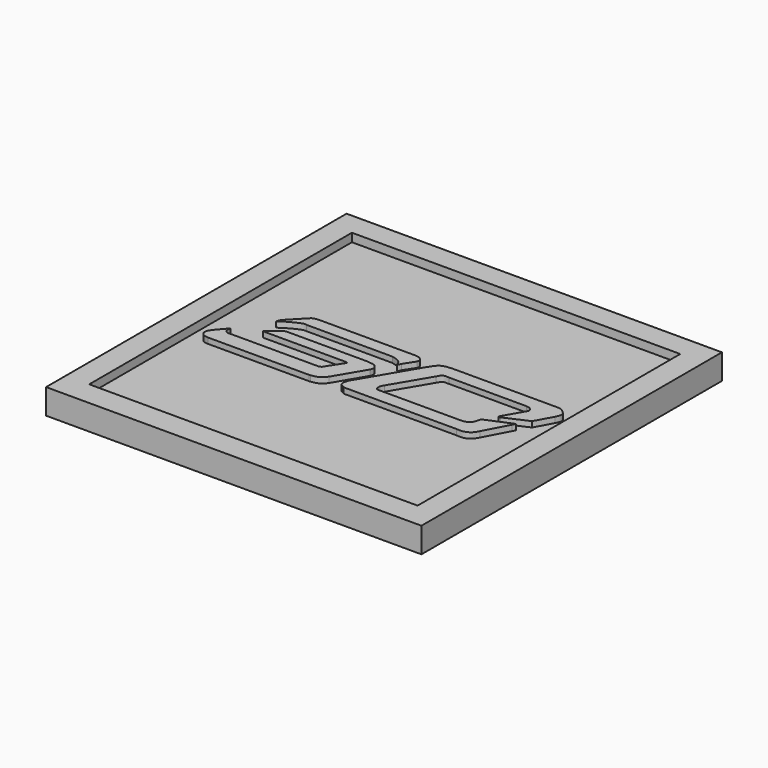
from build123d import *

# Parameters (mm, degrees)
F1_DEPTH = 4
F0_W     = 67.0369081199
F0_H     = 67.0809261501
F0_W_2   = 58.6396194994
F0_H_2   = 58.6396194994
F2_DEPTH = 4.5
F3_DEPTH = 3


with BuildPart() as f1:
    # F0 (on Top) → F1 (new body)
    with BuildSketch(Plane.XY):
        with BuildLine():
            Line((7.5317188166, 12.9940118641), (-6.4233830199, 12.9940118641))
            add(Edge.make_bspline(
                [(-6.4233830199, 12.9940118641), (-6.6727541746, 12.9958943063), (-7.3880370098, 13.0012938024), (-8.6391211367, 11.7970974877), (-9.4540361315, 11.0127236694)],
                knots=[0, 0, 0, 0, 0.3486329357, 1, 1, 1, 1], degree=3))
            Line((-9.4540361315, 11.0127236694), (5.2334726788, 11.0127236694))
            add(Edge.make_bspline(
                [(5.2334726788, 11.0127236694), (5.3090605952, 11.005323431), (5.4546754337, 10.991067389), (5.7107998654, 10.9503793721), (5.6690353198, 10.8663853028), (5.6522442028, 10.832616128)],
                knots=[0, 0, 0, 0, 0.3922608477, 0.7556631103, 1, 1, 1, 1], degree=3))
            Line((5.6522442028, 10.832616128), (3.7962628994, 7.9664159566))
            add(Edge.make_bspline(
                [(2.9035119805, 7.5670280494), (3.0000578914, 7.5566695575), (3.2150028585, 7.5336079314), (3.6782568153, 7.7182531376), (3.760973942, 7.8922044681), (3.7962628994, 7.9664159566)],
                knots=[0, 0, 0, 0, 0.3185914634, 0.7092960332, 1, 1, 1, 1], degree=3))
            Line((2.9035119805, 7.5670280494), (-12.6021569595, 7.5670280494))
            add(Edge.make_bspline(
                [(-12.6021569595, 7.5670280494), (-12.7506920977, 7.5400429871), (-13.0802808015, 7.48016509), (-13.6652374143, 8.0228190094), (-13.5939249894, 8.5642219459), (-13.5566350073, 8.8473269716)],
                knots=[0, 0, 0, 0, 0.2813001498, 0.62418464, 1, 1, 1, 1], degree=3))
            Line((-13.5566350073, 8.8473269716), (-14.8987295106, 7.290600799))
            add(Edge.make_bspline(
                [(-14.8987295106, 7.290600799), (-15.2012592552, 6.9147813474), (-15.7310535282, 6.2566411256), (-15.6963946329, 5.4074753693), (-15.1382114883, 4.8248356016), (-14.5680746791, 4.7742468891), (-14.2701910809, 4.7478154302)],
                knots=[0, 0, 0, 0, 0.3038309602, 0.5320729798, 0.7555187067, 1, 1, 1, 1], degree=3))
            Line((-14.2701910809, 4.7478154302), (3.7962628994, 4.7478154302))
            Line((3.7962628994, 4.7478154302), (4.013470374, 4.7706216574))
            add(Edge.make_bspline(
                [(4.013470374, 4.7706216574), (4.3513119959, 4.8207364924), (5.0133415069, 4.9189407917), (5.8331856113, 5.4264376837), (6.1557278644, 5.8572907906), (6.310059689, 6.0634477995)],
                knots=[0, 0, 0, 0, 0.3521129341, 0.6899953663, 1, 1, 1, 1], degree=3))
            Line((6.310059689, 6.0634477995), (9.434687905, 11.3494712859))
            add(Edge.make_bspline(
                [(7.5317188166, 12.9940118641), (7.8860031107, 12.9139476737), (8.7218129874, 12.942485334), (9.3478346646, 12.5465897861), (9.6333606255, 11.9778934035), (9.4980336551, 11.5595166389), (9.434687905, 11.3494712859)],
                knots=[0, 0, 0, 0, 0.3126475885, 0.5539185691, 0.7704032609, 1, 1, 1, 1], degree=3))
        make_face()
    extrude(amount=F1_DEPTH)


with BuildPart() as f1b:
    # F0 (on Top) → F1, piece 2 (new body)
    with BuildSketch(Plane.XY):
        with BuildLine():
            add(Edge.make_bspline(
                [(-6.7992783152, 18.1625690311), (-6.7218783201, 18.2408494541), (-6.5321221612, 18.4327640964), (-5.7584699837, 18.5846500966), (-5.4817017789, 18.5852151098), (-5.3661782295, 18.5854509473)],
                knots=[0, 0, 0, 0, 0.2863976424, 0.702141085, 1, 1, 1, 1], degree=3))
            Line((-6.7992783152, 18.1625690311), (-9.4540361315, 15.4138356447))
            add(Edge.make_bspline(
                [(-9.8945992067, 14.5138753578), (-9.8355837154, 14.7089058544), (-9.7261048863, 15.0707042551), (-9.5398765182, 15.3055742929), (-9.4540361315, 15.4138356447)],
                knots=[0, 0, 0, 0, 0.5390584817, 1, 1, 1, 1], degree=3))
            add(Edge.make_bspline(
                [(-5.9419521131, 16.3210518658), (-6.0955301027, 16.3523670214), (-6.5708551654, 16.4492876697), (-8.8357136927, 15.247359371), (-9.5796865141, 14.7320136008), (-9.8945992067, 14.5138753578)],
                knots=[0, 0, 0, 0, 0.2158587908, 0.6680846229, 1, 1, 1, 1], degree=3))
            Line((-5.9419521131, 16.3210518658), (9.4242570922, 16.3210518658))
            add(Edge.make_bspline(
                [(9.4242570922, 16.3210518658), (9.8580231383, 16.2191450354), (10.6587061949, 16.0310365533), (11.3099615765, 15.402030075), (11.4323750361, 14.5272736346), (11.6765127582, 15.1036052705), (11.8079283047, 15.4138356447)],
                knots=[0, 0, 0, 0, 0.3101997556, 0.5725936612, 0.7699338017, 1, 1, 1, 1], degree=3))
            Line((11.8079283047, 15.4138356447), (13.0150727928, 17.27803424))
            add(Edge.make_bspline(
                [(11.7934141308, 18.5854509473), (12.0689074593, 18.5504528138), (12.6063090604, 18.4821823657), (13.2006478052, 17.8574501631), (13.0738913587, 17.4616818833), (13.0150727928, 17.27803424)],
                knots=[0, 0, 0, 0, 0.3605207498, 0.7032635934, 1, 1, 1, 1], degree=3))
            Line((11.7934141308, 18.5854509473), (-5.3661782295, 18.5854509473))
        make_face()
    extrude(amount=F1_DEPTH)


with BuildPart() as f1c:
    # F0 (on Top) → F1, piece 3 (new body)
    with BuildSketch(Plane.XY):
        with BuildLine():
            Line((36.544136703, 18.720805645), (18.7552385032, 18.720805645))
            add(Edge.make_bspline(
                [(15.0009393692, 16.6222583503), (15.1623677986, 16.8946317423), (15.5332440598, 17.5050728651), (16.4577349423, 18.6980249853), (18.0030773782, 18.7043323853), (18.7552385032, 18.720805645)],
                knots=[0, 0, 0, 0, 0.2738864865, 0.5939585029, 1, 1, 1, 1], degree=3))
            Line((15.0009393692, 16.6222583503), (9.235596146, 6.8688612809))
            add(Edge.make_bspline(
                [(9.9266525358, 4.822300747), (9.784016403, 4.8964887432), (9.4961992386, 5.0461883898), (9.0340723968, 5.3404012259), (8.9512821931, 6.0966435328), (9.1378279264, 6.6033155572), (9.235596146, 6.8688612809)],
                knots=[0, 0, 0, 0, 0.2213381662, 0.4466254244, 0.7099775691, 1, 1, 1, 1], degree=3))
            Line((9.9266525358, 4.822300747), (30.0703570247, 4.822300747))
            add(Edge.make_bspline(
                [(30.0703570247, 4.822300747), (30.4279126371, 4.7907023331), (31.1715632493, 4.7249833819), (32.438589366, 5.2460694723), (32.8443943676, 5.9947768986), (33.0461449921, 6.3670054078)],
                knots=[0, 0, 0, 0, 0.3177180178, 0.6607956643, 1, 1, 1, 1], degree=3))
            Line((33.0461449921, 6.3670054078), (35.3091694415, 10.6416055933))
            Line((35.3091694415, 10.6416055933), (35.6153063476, 11.2101659179))
            Line((35.6153063476, 11.2101659179), (35.4690016553, 11.1558133187))
            Line((35.4690016553, 11.1558133187), (35.3091694415, 11.088622734))
            Line((35.3091694415, 11.088622734), (30.922813341, 9.2446776107))
            add(Edge.make_bspline(
                [(30.922813341, 9.2446776107), (30.858263753, 8.9288311737), (30.7364890333, 8.3329774666), (30.3934557342, 7.6380278351), (29.409422374, 7.1928113354), (28.7323395989, 7.2141591187), (28.3921994269, 7.2248834185)],
                knots=[0, 0, 0, 0, 0.2516735499, 0.474789645, 0.7361546519, 1, 1, 1, 1], degree=3))
            Line((28.3921994269, 7.2248834185), (14.1081884503, 7.2248834185))
            add(Edge.make_bspline(
                [(13.9907216653, 8.8224373758), (13.8776720821, 8.6435355381), (13.666460469, 8.3092915307), (13.6698623858, 7.8615901885), (13.6808670071, 7.3570968949), (13.9679673997, 7.2682678844), (14.1081884503, 7.2248834185)],
                knots=[0, 0, 0, 0, 0.2820520588, 0.5269605481, 0.7689655235, 1, 1, 1, 1], degree=3))
            Line((13.9907216653, 8.8224373758), (17.9141256958, 15.4475867748))
            add(Edge.make_bspline(
                [(17.9141256958, 15.4475867748), (18.0575234055, 15.6803944043), (18.2403680747, 16.129110707), (18.7844229687, 16.3537437286), (19.199762041, 16.3373235179), (19.5543635637, 16.3050498813)],
                knots=[0, 0, 0, 0, 0.3505179962, 0.6373288186, 1, 1, 1, 1], degree=3))
            Line((19.5543635637, 16.3050498813), (33.3437360823, 16.3050498813))
            add(Edge.make_bspline(
                [(33.3437360823, 16.3050498813), (33.5276203218, 16.2894647935), (33.8888194158, 16.2588514052), (34.3180724571, 15.9681853922), (34.6217686296, 15.4168059434), (34.3258769663, 14.9940953428), (34.1653451324, 14.7647596896)],
                knots=[0, 0, 0, 0, 0.2413657387, 0.4741085282, 0.7146850254, 1, 1, 1, 1], degree=3))
            Line((34.1653451324, 14.7647596896), (32.4503257871, 11.7810927331))
            add(Edge.make_bspline(
                [(32.6852612197, 11.4051979035), (32.6183076637, 11.3613766464), (32.4933426612, 11.2795867635), (32.2215916693, 11.3483231334), (32.3634684407, 11.6167568684), (32.4503257871, 11.7810927331)],
                knots=[0, 0, 0, 0, 0.3091889573, 0.5770835955, 1, 1, 1, 1], degree=3))
            Line((32.6852612197, 11.4051979035), (36.8201062083, 13.2611794397))
            Line((36.8201062083, 13.2611794397), (38.4881384671, 16.3153260946))
            add(Edge.make_bspline(
                [(36.544136703, 18.720805645), (36.9060931627, 18.736339322), (37.6138375578, 18.7667127898), (38.3707499587, 18.1455754393), (39.0373189888, 17.429065983), (38.6804352388, 16.7053045745), (38.4881384671, 16.3153260946)],
                knots=[0, 0, 0, 0, 0.2557788993, 0.5001322051, 0.730660297, 1, 1, 1, 1], degree=3))
        make_face()
    extrude(amount=F1_DEPTH)


with BuildPart() as f2:
    # F0 (on Top) → F2 (new body)
    with BuildSketch(Plane.XY):
        with Locations((11.5789491683, 11.7435436696)):
            Rectangle(F0_W, F0_H)
        with Locations((11.5587711334, 11.9346659631)):
            Rectangle(F0_W_2, F0_H_2, mode=Mode.SUBTRACT)
    extrude(amount=F2_DEPTH)


with BuildPart() as f3:
    # F0 (on Top) → F3 (new body)
    with BuildSketch(Plane.XY):
        with Locations((11.5587711334, 11.9346659631)):
            Rectangle(F0_W_2, F0_H_2)
        with BuildLine():
            add(Edge.make_bspline(
                [(-6.4233830199, 12.9940118641), (-6.6727541746, 12.9958943063), (-7.3880370098, 13.0012938024), (-8.6391211367, 11.7970974877), (-9.4540361315, 11.0127236694)],
                knots=[0, 0, 0, 0, 0.3486329357, 1, 1, 1, 1], degree=3))
            Line((-6.4233830199, 12.9940118641), (7.5317188166, 12.9940118641))
            add(Edge.make_bspline(
                [(7.5317188166, 12.9940118641), (7.8860031107, 12.9139476737), (8.7218129874, 12.942485334), (9.3478346646, 12.5465897861), (9.6333606255, 11.9778934035), (9.4980336551, 11.5595166389), (9.434687905, 11.3494712859)],
                knots=[0, 0, 0, 0, 0.3126475885, 0.5539185691, 0.7704032609, 1, 1, 1, 1], degree=3))
            Line((9.434687905, 11.3494712859), (6.310059689, 6.0634477995))
            add(Edge.make_bspline(
                [(4.013470374, 4.7706216574), (4.3513119959, 4.8207364924), (5.0133415069, 4.9189407917), (5.8331856113, 5.4264376837), (6.1557278644, 5.8572907906), (6.310059689, 6.0634477995)],
                knots=[0, 0, 0, 0, 0.3521129341, 0.6899953663, 1, 1, 1, 1], degree=3))
            Line((4.013470374, 4.7706216574), (3.7962628994, 4.7478154302))
            Line((3.7962628994, 4.7478154302), (-14.2701910809, 4.7478154302))
            add(Edge.make_bspline(
                [(-14.8987295106, 7.290600799), (-15.2012592552, 6.9147813474), (-15.7310535282, 6.2566411256), (-15.6963946329, 5.4074753693), (-15.1382114883, 4.8248356016), (-14.5680746791, 4.7742468891), (-14.2701910809, 4.7478154302)],
                knots=[0, 0, 0, 0, 0.3038309602, 0.5320729798, 0.7555187067, 1, 1, 1, 1], degree=3))
            Line((-14.8987295106, 7.290600799), (-13.5566350073, 8.8473269716))
            add(Edge.make_bspline(
                [(-12.6021569595, 7.5670280494), (-12.7506920977, 7.5400429871), (-13.0802808015, 7.48016509), (-13.6652374143, 8.0228190094), (-13.5939249894, 8.5642219459), (-13.5566350073, 8.8473269716)],
                knots=[0, 0, 0, 0, 0.2813001498, 0.62418464, 1, 1, 1, 1], degree=3))
            Line((-12.6021569595, 7.5670280494), (2.9035119805, 7.5670280494))
            add(Edge.make_bspline(
                [(2.9035119805, 7.5670280494), (3.0000578914, 7.5566695575), (3.2150028585, 7.5336079314), (3.6782568153, 7.7182531376), (3.760973942, 7.8922044681), (3.7962628994, 7.9664159566)],
                knots=[0, 0, 0, 0, 0.3185914634, 0.7092960332, 1, 1, 1, 1], degree=3))
            Line((3.7962628994, 7.9664159566), (5.6522442028, 10.832616128))
            add(Edge.make_bspline(
                [(5.2334726788, 11.0127236694), (5.3090605952, 11.005323431), (5.4546754337, 10.991067389), (5.7107998654, 10.9503793721), (5.6690353198, 10.8663853028), (5.6522442028, 10.832616128)],
                knots=[0, 0, 0, 0, 0.3922608477, 0.7556631103, 1, 1, 1, 1], degree=3))
            Line((5.2334726788, 11.0127236694), (-9.4540361315, 11.0127236694))
        make_face(mode=Mode.SUBTRACT)
        with BuildLine():
            Line((-9.4540361315, 15.4138356447), (-6.7992783152, 18.1625690311))
            add(Edge.make_bspline(
                [(-6.7992783152, 18.1625690311), (-6.7218783201, 18.2408494541), (-6.5321221612, 18.4327640964), (-5.7584699837, 18.5846500966), (-5.4817017789, 18.5852151098), (-5.3661782295, 18.5854509473)],
                knots=[0, 0, 0, 0, 0.2863976424, 0.702141085, 1, 1, 1, 1], degree=3))
            Line((-5.3661782295, 18.5854509473), (11.7934141308, 18.5854509473))
            add(Edge.make_bspline(
                [(11.7934141308, 18.5854509473), (12.0689074593, 18.5504528138), (12.6063090604, 18.4821823657), (13.2006478052, 17.8574501631), (13.0738913587, 17.4616818833), (13.0150727928, 17.27803424)],
                knots=[0, 0, 0, 0, 0.3605207498, 0.7032635934, 1, 1, 1, 1], degree=3))
            Line((13.0150727928, 17.27803424), (11.8079283047, 15.4138356447))
            add(Edge.make_bspline(
                [(9.4242570922, 16.3210518658), (9.8580231383, 16.2191450354), (10.6587061949, 16.0310365533), (11.3099615765, 15.402030075), (11.4323750361, 14.5272736346), (11.6765127582, 15.1036052705), (11.8079283047, 15.4138356447)],
                knots=[0, 0, 0, 0, 0.3101997556, 0.5725936612, 0.7699338017, 1, 1, 1, 1], degree=3))
            Line((9.4242570922, 16.3210518658), (-5.9419521131, 16.3210518658))
            add(Edge.make_bspline(
                [(-5.9419521131, 16.3210518658), (-6.0955301027, 16.3523670214), (-6.5708551654, 16.4492876697), (-8.8357136927, 15.247359371), (-9.5796865141, 14.7320136008), (-9.8945992067, 14.5138753578)],
                knots=[0, 0, 0, 0, 0.2158587908, 0.6680846229, 1, 1, 1, 1], degree=3))
            add(Edge.make_bspline(
                [(-9.8945992067, 14.5138753578), (-9.8355837154, 14.7089058544), (-9.7261048863, 15.0707042551), (-9.5398765182, 15.3055742929), (-9.4540361315, 15.4138356447)],
                knots=[0, 0, 0, 0, 0.5390584817, 1, 1, 1, 1], degree=3))
        make_face(mode=Mode.SUBTRACT)
        with BuildLine():
            add(Edge.make_bspline(
                [(15.0009393692, 16.6222583503), (15.1623677986, 16.8946317423), (15.5332440598, 17.5050728651), (16.4577349423, 18.6980249853), (18.0030773782, 18.7043323853), (18.7552385032, 18.720805645)],
                knots=[0, 0, 0, 0, 0.2738864865, 0.5939585029, 1, 1, 1, 1], degree=3))
            Line((18.7552385032, 18.720805645), (36.544136703, 18.720805645))
            add(Edge.make_bspline(
                [(36.544136703, 18.720805645), (36.9060931627, 18.736339322), (37.6138375578, 18.7667127898), (38.3707499587, 18.1455754393), (39.0373189888, 17.429065983), (38.6804352388, 16.7053045745), (38.4881384671, 16.3153260946)],
                knots=[0, 0, 0, 0, 0.2557788993, 0.5001322051, 0.730660297, 1, 1, 1, 1], degree=3))
            Line((38.4881384671, 16.3153260946), (36.8201062083, 13.2611794397))
            Line((36.8201062083, 13.2611794397), (32.6852612197, 11.4051979035))
            add(Edge.make_bspline(
                [(32.6852612197, 11.4051979035), (32.6183076637, 11.3613766464), (32.4933426612, 11.2795867635), (32.2215916693, 11.3483231334), (32.3634684407, 11.6167568684), (32.4503257871, 11.7810927331)],
                knots=[0, 0, 0, 0, 0.3091889573, 0.5770835955, 1, 1, 1, 1], degree=3))
            Line((32.4503257871, 11.7810927331), (34.1653451324, 14.7647596896))
            add(Edge.make_bspline(
                [(33.3437360823, 16.3050498813), (33.5276203218, 16.2894647935), (33.8888194158, 16.2588514052), (34.3180724571, 15.9681853922), (34.6217686296, 15.4168059434), (34.3258769663, 14.9940953428), (34.1653451324, 14.7647596896)],
                knots=[0, 0, 0, 0, 0.2413657387, 0.4741085282, 0.7146850254, 1, 1, 1, 1], degree=3))
            Line((33.3437360823, 16.3050498813), (19.5543635637, 16.3050498813))
            add(Edge.make_bspline(
                [(17.9141256958, 15.4475867748), (18.0575234055, 15.6803944043), (18.2403680747, 16.129110707), (18.7844229687, 16.3537437286), (19.199762041, 16.3373235179), (19.5543635637, 16.3050498813)],
                knots=[0, 0, 0, 0, 0.3505179962, 0.6373288186, 1, 1, 1, 1], degree=3))
            Line((17.9141256958, 15.4475867748), (13.9907216653, 8.8224373758))
            add(Edge.make_bspline(
                [(13.9907216653, 8.8224373758), (13.8776720821, 8.6435355381), (13.666460469, 8.3092915307), (13.6698623858, 7.8615901885), (13.6808670071, 7.3570968949), (13.9679673997, 7.2682678844), (14.1081884503, 7.2248834185)],
                knots=[0, 0, 0, 0, 0.2820520588, 0.5269605481, 0.7689655235, 1, 1, 1, 1], degree=3))
            Line((14.1081884503, 7.2248834185), (28.3921994269, 7.2248834185))
            add(Edge.make_bspline(
                [(30.922813341, 9.2446776107), (30.858263753, 8.9288311737), (30.7364890333, 8.3329774666), (30.3934557342, 7.6380278351), (29.409422374, 7.1928113354), (28.7323395989, 7.2141591187), (28.3921994269, 7.2248834185)],
                knots=[0, 0, 0, 0, 0.2516735499, 0.474789645, 0.7361546519, 1, 1, 1, 1], degree=3))
            Line((30.922813341, 9.2446776107), (35.3091694415, 11.088622734))
            Line((35.3091694415, 11.088622734), (35.4690016553, 11.1558133187))
            Line((35.4690016553, 11.1558133187), (35.6153063476, 11.2101659179))
            Line((35.6153063476, 11.2101659179), (35.3091694415, 10.6416055933))
            Line((35.3091694415, 10.6416055933), (33.0461449921, 6.3670054078))
            add(Edge.make_bspline(
                [(30.0703570247, 4.822300747), (30.4279126371, 4.7907023331), (31.1715632493, 4.7249833819), (32.438589366, 5.2460694723), (32.8443943676, 5.9947768986), (33.0461449921, 6.3670054078)],
                knots=[0, 0, 0, 0, 0.3177180178, 0.6607956643, 1, 1, 1, 1], degree=3))
            Line((30.0703570247, 4.822300747), (9.9266525358, 4.822300747))
            add(Edge.make_bspline(
                [(9.9266525358, 4.822300747), (9.784016403, 4.8964887432), (9.4961992386, 5.0461883898), (9.0340723968, 5.3404012259), (8.9512821931, 6.0966435328), (9.1378279264, 6.6033155572), (9.235596146, 6.8688612809)],
                knots=[0, 0, 0, 0, 0.2213381662, 0.4466254244, 0.7099775691, 1, 1, 1, 1], degree=3))
            Line((9.235596146, 6.8688612809), (15.0009393692, 16.6222583503))
        make_face(mode=Mode.SUBTRACT)
    extrude(amount=F3_DEPTH)


solid = Compound([f1.part, f1b.part, f1c.part, f2.part, f3.part])
